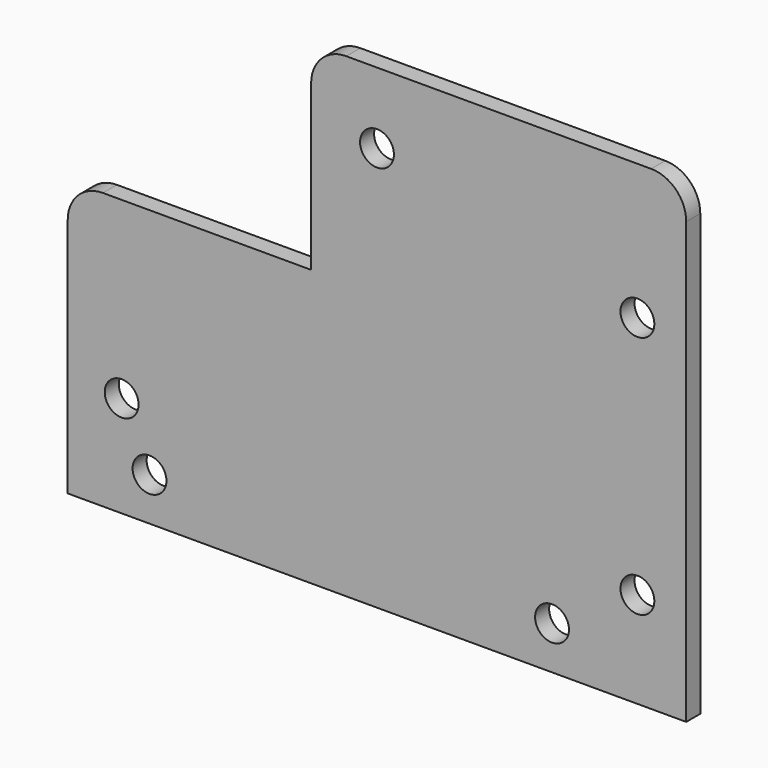
from build123d import *

# Parameters (mm, degrees)
F0_R     = 3.062857
F1_DEPTH = 3.175


with BuildPart() as f1:
    # F0 (on Front) → F1 (new body)
    with BuildSketch(Plane.XZ):
        with BuildLine():
            Line((0, 43.582074), (0, 0))
            Line((0, 0), (111.90135, 0))
            Line((111.90135, 0), (111.90135, 79.67873))
            ThreePointArc((111.90135, 79.67873), (110.041478, 84.168858), (105.55135, 86.02873))
            Line((105.55135, 86.02873), (50.388589, 86.02873))
            ThreePointArc((50.388589, 86.02873), (45.89846, 84.168858), (44.038589, 79.67873))
            Line((44.038589, 79.67873), (44.038589, 49.932074))
            Line((44.038589, 49.932074), (6.35, 49.932074))
            ThreePointArc((6.35, 49.932074), (1.859872, 48.072202), (0, 43.582074))
        make_face()
        with Locations((14.799928, 7.797638)):
            Circle(F0_R, mode=Mode.SUBTRACT)
        with Locations((9.756028, 18.312238)):
            Circle(F0_R, mode=Mode.SUBTRACT)
        with Locations((87.621249, 7.797638)):
            Circle(F0_R, mode=Mode.SUBTRACT)
        with Locations((103.068195, 17.366506)):
            Circle(F0_R, mode=Mode.SUBTRACT)
        with Locations((55.950675, 73.164664)):
            Circle(F0_R, mode=Mode.SUBTRACT)
        with Locations((103.068195, 61.500642)):
            Circle(F0_R, mode=Mode.SUBTRACT)
    extrude(amount=F1_DEPTH)


solid = f1.part
